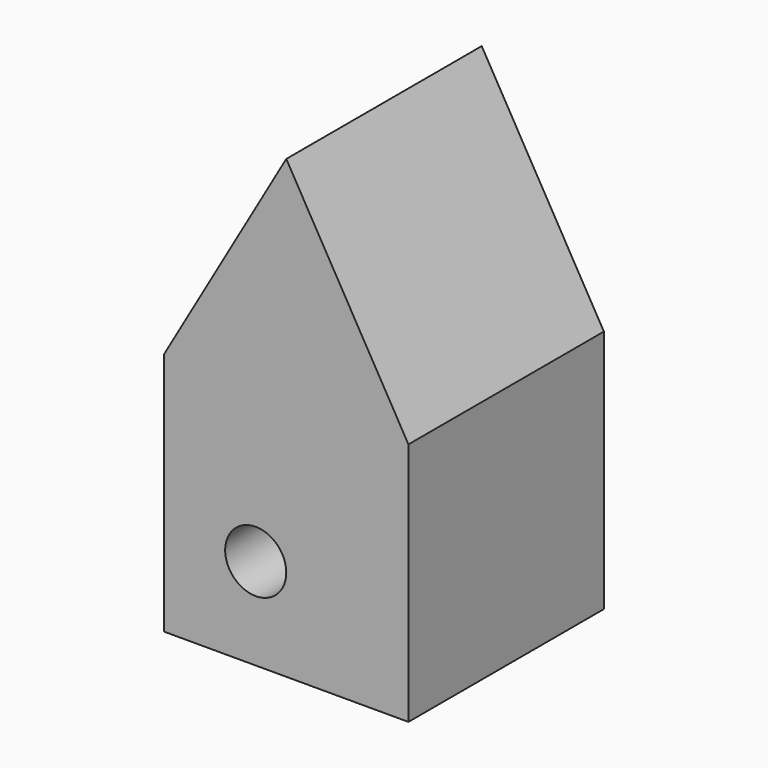
from build123d import *

# Parameters (mm, degrees)
F0_W     = 50.8
F0_H     = 50.8
F0_R     = 6.35
F1_DEPTH = 50.8


with BuildPart() as f1:
    # F0 (on Front) → F1 (new body)
    with BuildSketch(Plane.XZ):
        Polygon((0, 74.828401), (-25.4, 30.834311), (25.4, 30.834311), align=None)
        with Locations((0, 5.434311)):
            Rectangle(F0_W, F0_H)
        with Locations((-6.35, -0.915689)):
            Circle(F0_R, mode=Mode.SUBTRACT)
    extrude(amount=F1_DEPTH)


solid = f1.part
